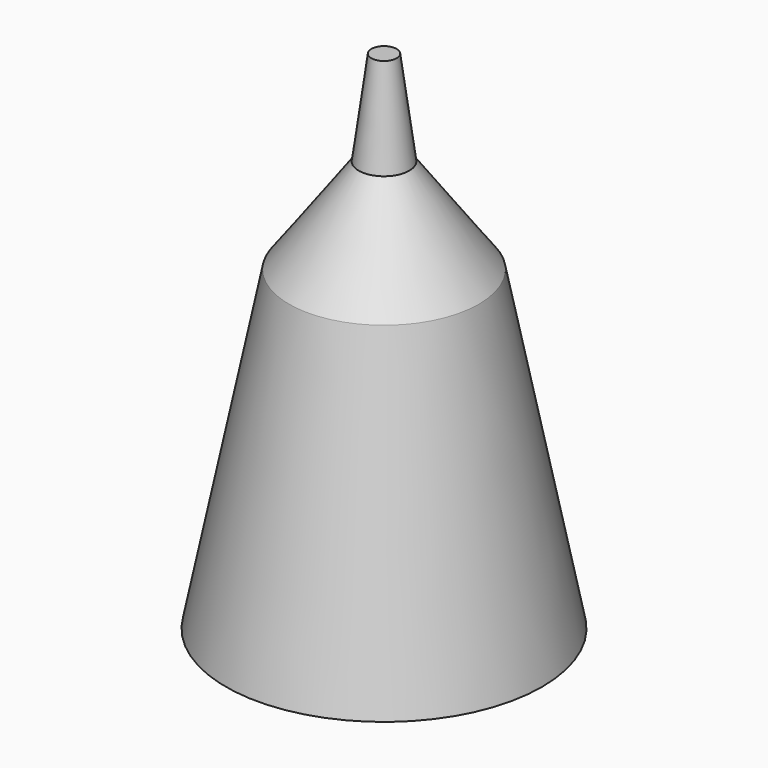
from build123d import *


with BuildPart() as cone001:
    # Cone001 → Cone001 (revolve)
    with BuildSketch(Plane(origin=(0, 0, -15), x_dir=(1, 0, 0), z_dir=(0, -1, 0))):
        Polygon((0, 0), (15, 0), (4, 15), (0, 15), align=None)
    revolve(axis=Axis((0, 0, -15), (0, 0, 1)))


with BuildPart() as cone002:
    # Cone002 → Cone002 (revolve)
    with BuildSketch(Plane(origin=(0, 0, -65), x_dir=(1, 0, 0), z_dir=(0, -1, 0))):
        Polygon((0, 0), (25, 0), (15, 50), (0, 50), align=None)
    revolve(axis=Axis((0, 0, -65), (0, 0, 1)))


with BuildPart() as fusion:
    # Cone → Cone (revolve)
    with BuildSketch(Plane.XZ):
        Polygon((0, 0), (4, 0), (2, 15), (0, 15), align=None)
    revolve(axis=Axis((0, 0, 0), (0, 0, 1)))

    # Fusion: union Cone001, Cone002
    add(cone001.part)
    add(cone002.part)


solid = fusion.part
